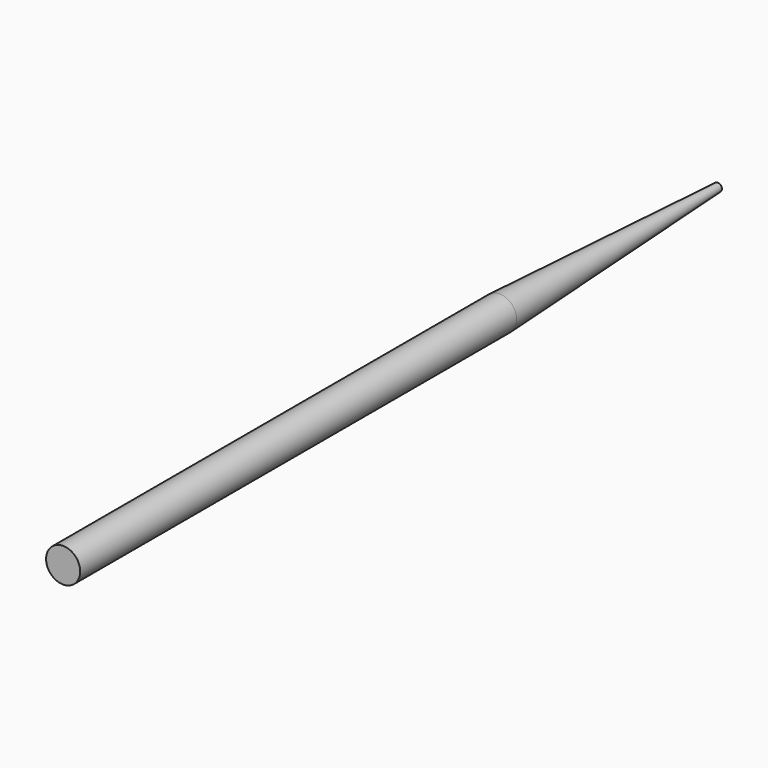
from build123d import *


with BuildPart() as f1:
    # F0 (on Right) → F1 (revolve)
    with BuildSketch(Plane.YZ):
        Polygon((-101.6, 0), (50.8, 0), (50.8, 0.762), (0, 3.175), (-101.6, 3.175), align=None)
    revolve(axis=Axis((0, 5.78963, 0), (0, 1, 0)))


solid = f1.part
